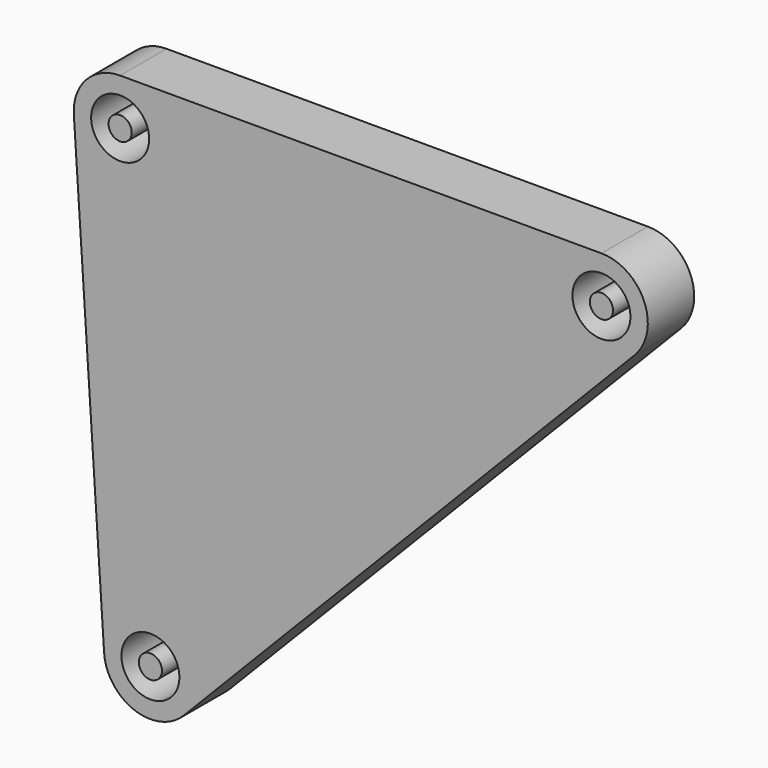
from build123d import *

# Parameters (mm, degrees)
F0_R     = 2.5
F0_R_2   = 1
F1_DEPTH = 5


with BuildPart() as f1:
    # F0 (on Front) → F1 (new body)
    with BuildSketch(Plane.XZ):
        with BuildLine():
            Line((25.79, 6.74), (-15.71, 6.74))
            ThreePointArc((-15.71, 6.74), (-18.629035, 5.474819), (-19.701516, 2.479619))
            Line((-19.701516, 2.479619), (-17.091516, -37.530381))
            ThreePointArc((-17.091516, -37.530381), (-14.482975, -41.023316), (-10.231712, -40.057996))
            Line((-10.231712, -40.057996), (28.658288, -0.047996))
            ThreePointArc((28.658288, -0.047996), (29.474561, 4.296922), (25.79, 6.74))
        make_face()
        with Locations((-13.1, -37.27)):
            Circle(F0_R, mode=Mode.SUBTRACT)
        with Locations((-15.71, 2.74)):
            Circle(F0_R, mode=Mode.SUBTRACT)
        with Locations((25.79, 2.74)):
            Circle(F0_R, mode=Mode.SUBTRACT)
        with Locations((-15.71, 2.74)):
            Circle(F0_R_2)
        with Locations((-13.1, -37.27)):
            Circle(F0_R_2)
        with Locations((25.79, 2.74)):
            Circle(F0_R_2)
    extrude(amount=F1_DEPTH)


solid = f1.part
